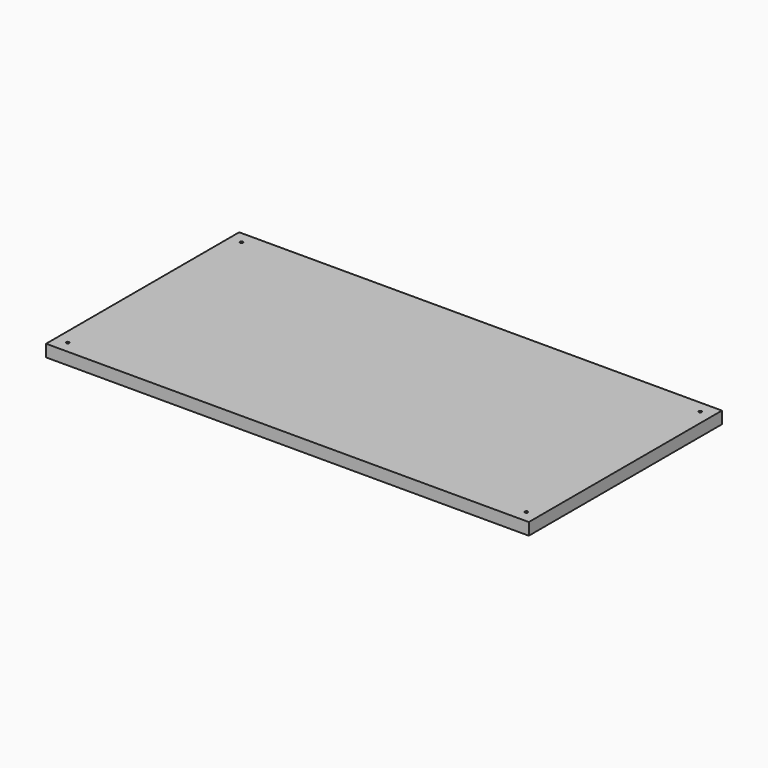
from build123d import *

# Parameters (mm, degrees)
F0_W     = 1000
F0_H     = 500
F1_DEPTH = 25
F2_W     = 50
F2_H     = 50
F3_DEPTH = 24
F4_R     = 3
F5_DEPTH = 12
F6_R     = 3
F7_DEPTH = 12


with BuildPart() as f1:
    # F0 (on Top) → F1 (new body)
    with BuildSketch(Plane.XY):
        with Locations((500, 250)):
            Rectangle(F0_W, F0_H)
    extrude(amount=F1_DEPTH)

    # F2 (on face) → F3 (join)
    with BuildSketch(Plane.XY.offset(25)):
        with Locations((25, 475)):
            Rectangle(F2_W, F2_H)
        with Locations((25, 25)):
            Rectangle(F2_W, F2_H)
    extrude(amount=-F3_DEPTH)

    # F4 (on face) → F5 (cut)
    with BuildSketch(Plane.XY.offset(25)):
        with Locations((975, 475)):
            Circle(F4_R)
        with Locations((975, 25)):
            Circle(F4_R)
    extrude(amount=-F5_DEPTH, mode=Mode.SUBTRACT)

    # F6 (on face) → F7 (cut)
    with BuildSketch(Plane.XY.offset(25)):
        with Locations((25, 475)):
            Circle(F6_R)
        with Locations((25, 25)):
            Circle(F6_R)
    extrude(amount=-F7_DEPTH, mode=Mode.SUBTRACT)


solid = f1.part
